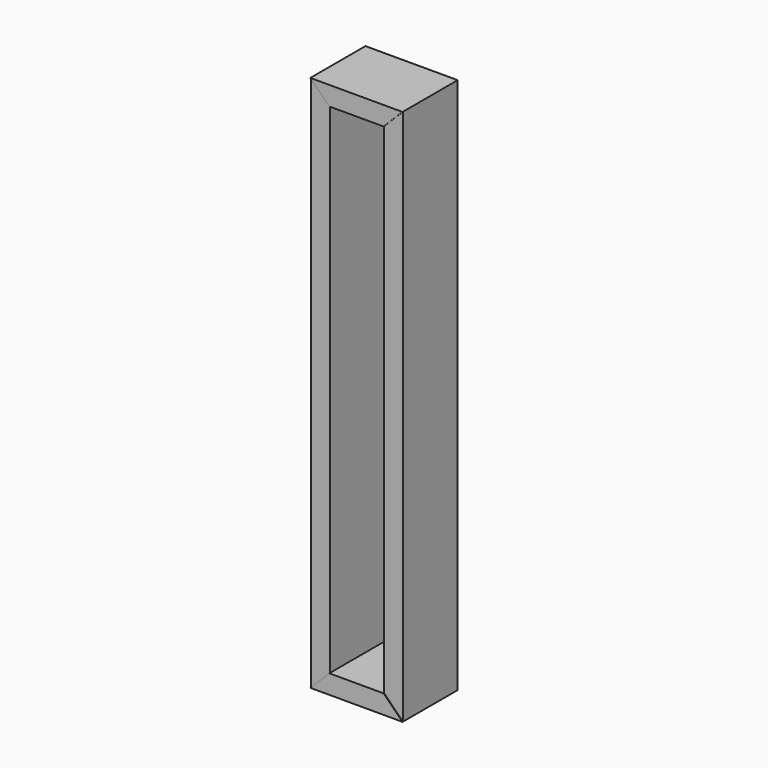
from build123d import *

# Parameters (mm, degrees)
F0_W     = 34
F0_H     = 198
F1_DEPTH = 25
F2_DEPTH = 0.2
F3_W     = 20
F3_H     = 184
F4_DEPTH = 25
F6_DEPTH = 0.2


with BuildPart() as f1:
    # F0 (on Front) → F1 (new body)
    with BuildSketch(Plane.XZ):
        Rectangle(F0_W, F0_H)
    extrude(amount=F1_DEPTH)

    # F0 (on Front) → F2 (join)
    with BuildSketch(Plane.XZ):
        Rectangle(F0_W, F0_H)
    extrude(amount=-F2_DEPTH)

    # F3 (on face) → F4 (cut)
    with BuildSketch(Plane.XZ.offset(25)):
        Rectangle(F3_W, F3_H)
    extrude(amount=-F4_DEPTH, mode=Mode.SUBTRACT)

    # F5 (on face) → F6 (join)
    with BuildSketch(Plane.XZ.offset(25)):
        Polygon((17, 99), (-17, 99), (-10, 92), (10, 92), align=None)
        Polygon((-10, -92), (-17, -99), (17, -99), (10, -92), align=None)
    extrude(amount=F6_DEPTH)


solid = f1.part
